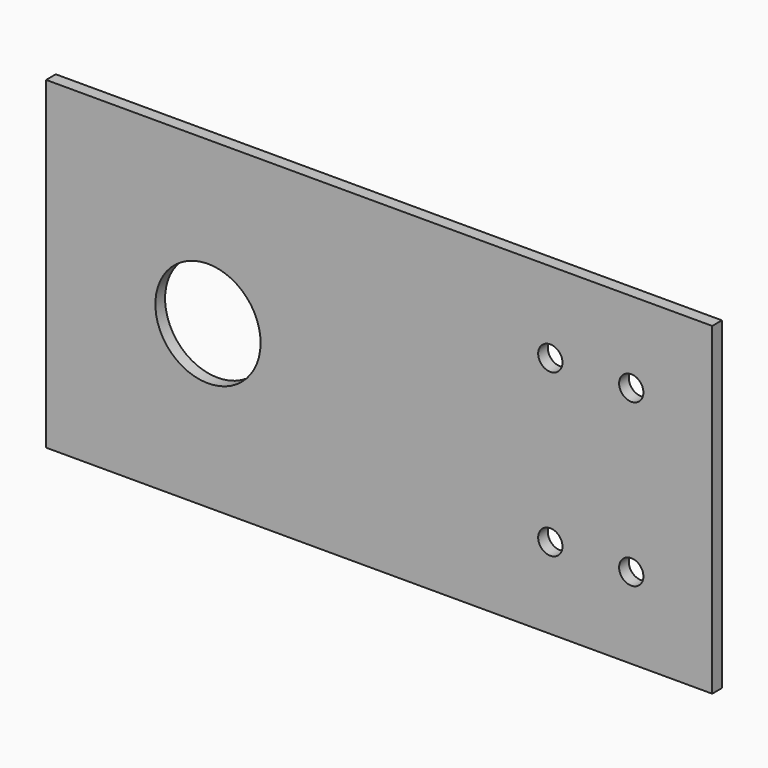
from build123d import *

# Parameters (mm, degrees)
F0_W     = 164.586002
F0_H     = 80
F0_R     = 13
F1_DEPTH = 3
F2_D     = 6
F2_DEPTH = 40


with BuildPart() as f1:
    # F0 (on Front) → F1 (new body)
    with BuildSketch(Plane.XZ):
        Rectangle(F0_W, F0_H)
        with Locations((-42.293001, 0)):
            Circle(F0_R, mode=Mode.SUBTRACT)
    extrude(amount=F1_DEPTH)

    # F2
    with Locations(Plane(origin=(0, 0, 0), x_dir=(1, 0, 0), z_dir=(0, 1, 0))):
        with Locations((42.293001, 20), (62.293001, 20), (62.293001, -20), (42.293001, -20)):
            Hole(F2_D / 2, depth=F2_DEPTH)


solid = f1.part
